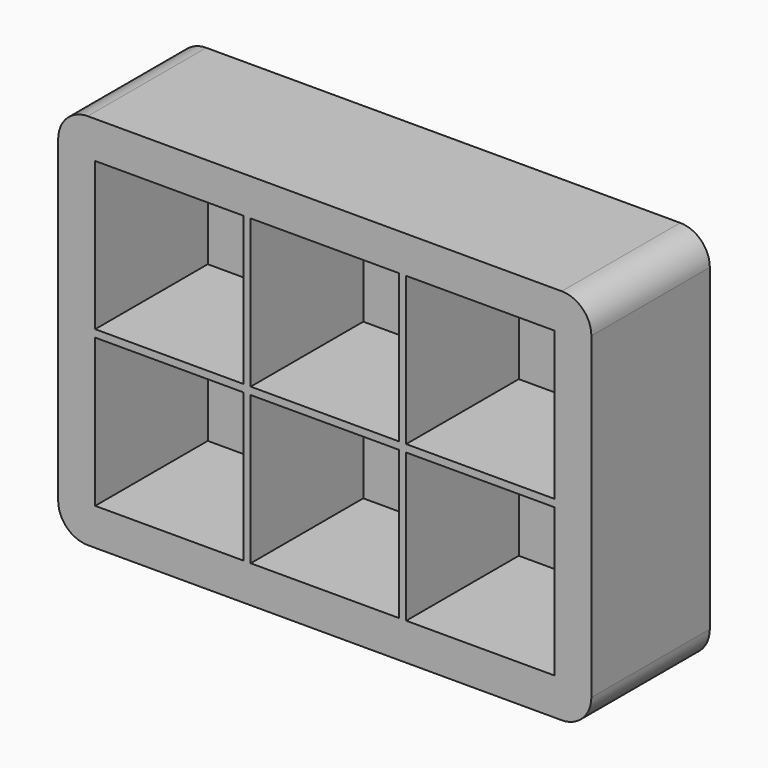
from build123d import *

# Parameters (mm, degrees)
F0_W     = 25.4
F0_H     = 25.4
F1_DEPTH = 25.4
F2_W     = 91.44
F2_H     = 64.77
F3_DEPTH = 1.27
F4_R     = 5.08


with BuildPart() as f1:
    # F0 (on Front) → F1 (new body)
    with BuildSketch(Plane.XZ):
        Polygon((-45.72, -32.385), (45.72, -32.385), (45.72, 32.385), (-38.428448, 32.385), (-45.72, 32.385), (-45.72, 27.392585), align=None)
        Polygon((-39.37, -0.635), (-36.457758, -0.635), (-13.97, -0.635), (-13.97, -26.035), (-39.37, -26.035), align=None, mode=Mode.SUBTRACT)
        with Locations((0, -13.335)):
            Rectangle(F0_W, F0_H, mode=Mode.SUBTRACT)
        with Locations((26.67, -13.335)):
            Rectangle(F0_W, F0_H, mode=Mode.SUBTRACT)
        Polygon((-39.37, 26.035), (-38.428448, 26.035), (-13.97, 26.035), (-13.97, 13.335), (-13.97, 0.635), (-36.457758, 0.635), (-39.37, 0.635), align=None, mode=Mode.SUBTRACT)
        Polygon((-12.7, 0.635), (-12.7, 13.335), (-12.7, 26.035), (12.7, 26.035), (12.7, 15.568449), (12.7, 0.635), align=None, mode=Mode.SUBTRACT)
        Polygon((13.97, 0.635), (13.97, 15.568449), (13.97, 26.035), (39.37, 26.035), (39.37, 0.635), align=None, mode=Mode.SUBTRACT)
    extrude(amount=F1_DEPTH)

    # F2 (on Front) → F3 (join)
    with BuildSketch(Plane.XZ):
        Rectangle(F2_W, F2_H)
    extrude(amount=F3_DEPTH)

    # F4
    f4_edges = [f1.edges().sort_by_distance(p)[0] for p in [
        (-45.72, -12.7, 32.385),
        (45.72, -12.7, 32.385),
        (-45.72, -12.7, -32.385),
        (45.72, -12.7, -32.385),
    ]]
    fillet(f4_edges, radius=F4_R)


solid = f1.part
